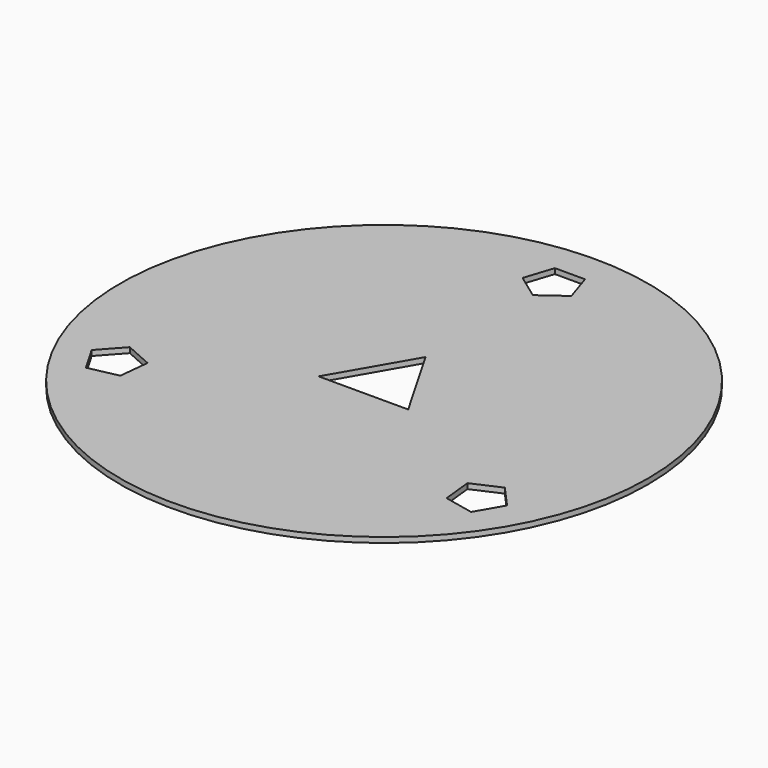
from build123d import *

# Parameters (mm, degrees)
F0_R     = 50
F1_DEPTH = 1


with BuildPart() as f1:
    # F0 (on Top) → F1 (new body)
    with BuildSketch(Plane.XY):
        Circle(F0_R)
        Polygon((-39.96595, -19.287039), (-36.141075, -15.039085), (-30.919079, -17.364067), (-31.516583, -23.04894), (-37.107857, -24.237402), align=None, mode=Mode.SUBTRACT)
        Polygon((36.260136, -24.726834), (30.668862, -23.538372), (30.071358, -17.853499), (35.293354, -15.528517), (39.118229, -19.776471), align=None, mode=Mode.SUBTRACT)
        Polygon((2.858093, 44.006791), (4.624492, 38.570374), (0, 35.210484), (-4.624492, 38.570374), (-2.858093, 44.006791), align=None, mode=Mode.SUBTRACT)
        Polygon((8.489374, -4.901343), (-8.489374, -4.901343), (0, 9.802685), align=None, mode=Mode.SUBTRACT)
    extrude(amount=F1_DEPTH)


solid = f1.part
